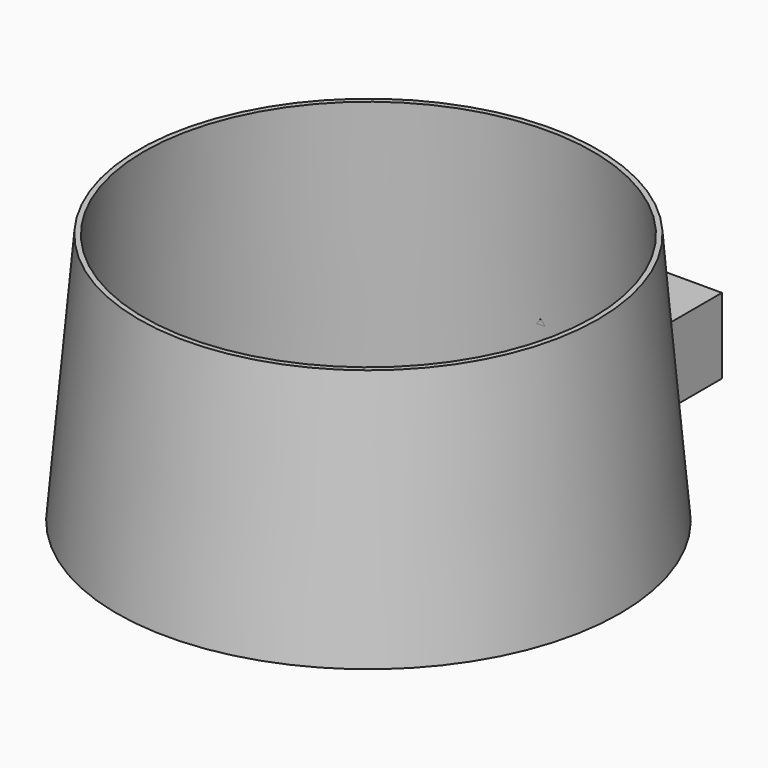
from build123d import *

# Parameters (mm, degrees)
F0_W          = 40
F0_H          = 55
F1_DEPTH      = 30
F2_W          = 36
F2_H          = 26
F3_DEPTH      = 189.1
F3_DEPTH_BACK = 48.4
F4_R          = 100
F5_DEPTH      = 100
F5_TAPER      = 5
F8_R          = 96
F9_DEPTH      = 100
F9_TAPER      = 4


with BuildPart() as f1:
    # F0 (on Top) → F1 (new body)
    with BuildSketch(Plane.XY):
        with Locations((6.9573908113, 20.1134101001)):
            Rectangle(F0_W, F0_H)
    extrude(amount=F1_DEPTH)

    # F2 (on face) → F3 (cut, two sides)
    with BuildSketch(Plane.XZ.offset(7.3865898999)) as f3_sk:
        with Locations((6.9573908113, 15)):
            Rectangle(F2_W, F2_H)
    extrude(amount=-F3_DEPTH, mode=Mode.SUBTRACT)
    extrude(f3_sk.sketch, amount=F3_DEPTH_BACK, mode=Mode.SUBTRACT)


with BuildPart() as f5:
    # F4 (on Top) → F5 (new body)
    with BuildSketch(Plane.XY):
        with Locations((0.8587710145, -108.2022971908)):
            Circle(F4_R)
    extrude(amount=F5_DEPTH, taper=F5_TAPER)


with BuildPart() as f1_1:
    # F6: moved
    add(f1.part.moved(Location((0, -12.9, 0))))


with BuildPart() as f9_tool:
    # F8 (on offset) → F9 (new body)
    with BuildSketch(Plane.XY.offset(3)):
        with Locations((0.8587710145, -108.2022971908)):
            Circle(F8_R)
    extrude(amount=F9_DEPTH, taper=F9_TAPER)


with BuildPart() as f1_2:
    add(f1_1.part)

    # F9: cut by f9_tool
    add(f9_tool.part, mode=Mode.SUBTRACT)


with BuildPart() as f5_1:
    add(f5.part)

    # F9: cut by f9_tool
    add(f9_tool.part, mode=Mode.SUBTRACT)


solid = Compound([f1_2.part, f5_1.part])
